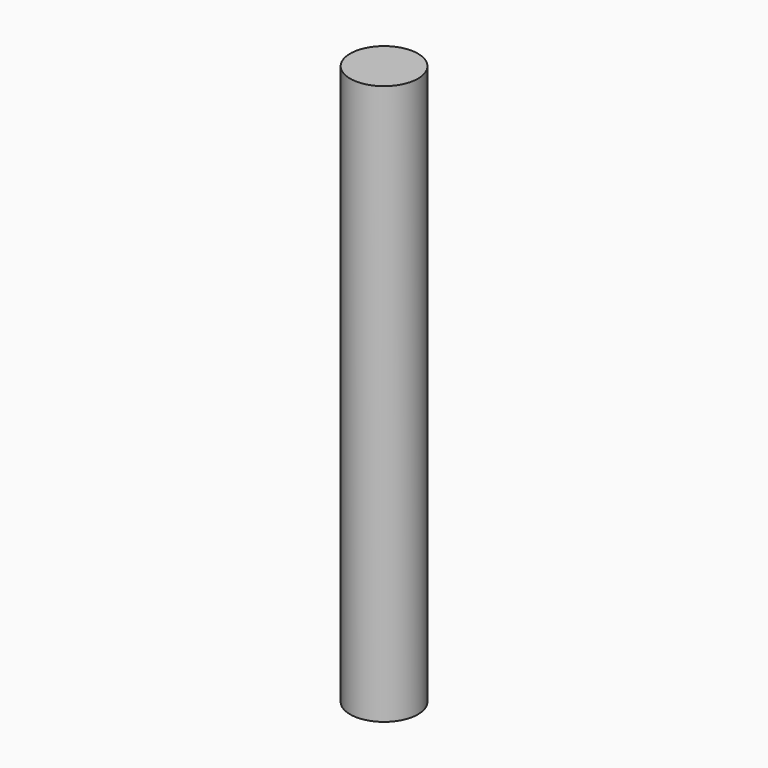
from build123d import *

# Parameters (mm, degrees)
SKETCH_R  = 4
PAD_DEPTH = 66


with BuildPart() as part:
    # Sketch → Pad (new body)
    with BuildSketch(Plane.XY):
        Circle(SKETCH_R)
    extrude(amount=PAD_DEPTH)


solid = part.part
